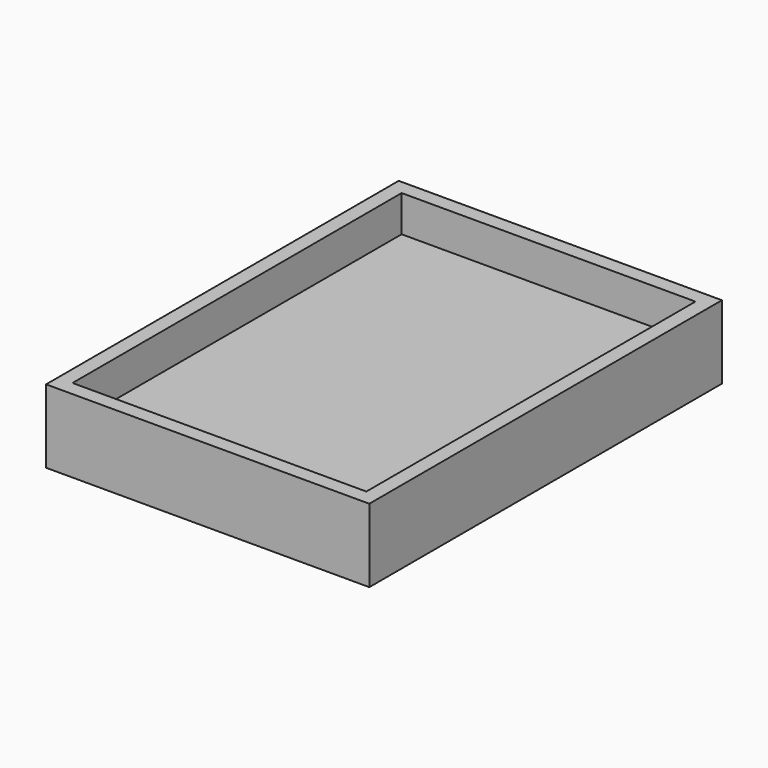
from build123d import *

# Parameters (mm, degrees)
F0_W     = 1100
F0_H     = 1500
F0_W_2   = 1000
F0_H_2   = 1400
F1_DEPTH = 125
F2_W     = 1000
F2_H     = 1400
F3_DEPTH = 1.5


with BuildPart() as f1:
    # F0 (on Top) → F1 (new body, symmetric)
    with BuildSketch(Plane.XY):
        Rectangle(F0_W, F0_H)
        Rectangle(F0_W_2, F0_H_2, mode=Mode.SUBTRACT)
    extrude(amount=F1_DEPTH, both=True)

    # F2 (on Top) → F3 (join, symmetric)
    with BuildSketch(Plane.XY):
        Rectangle(F2_W, F2_H)
    extrude(amount=F3_DEPTH, both=True)


solid = f1.part
